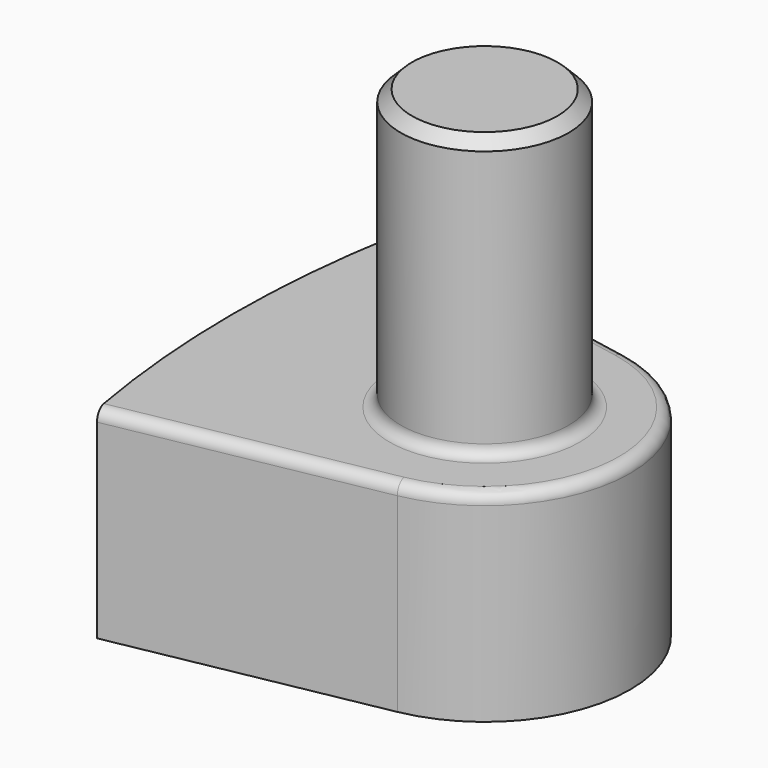
from build123d import *

# Parameters (mm, degrees)
F1_DEPTH = 18
F2_R     = 7.5
F3_DEPTH = 25
F4_R     = 1
F5_SIZE  = 1


with BuildPart() as f1:
    # F0 (on Top) → F1 (new body)
    with BuildSketch(Plane.XY):
        with BuildLine():
            Line((-67.585714, 12.773849), (-90.89085, 17.178571))
            ThreePointArc((-90.89085, 17.178571), (-92.5, 0), (-90.89085, -17.178571))
            Line((-90.89085, -17.178571), (-67.585714, -12.773849))
            ThreePointArc((-67.585714, -12.773849), (-57, 0), (-67.585714, 12.773849))
        make_face()
    extrude(amount=F1_DEPTH)

    # F2 (on face) → F3 (join)
    with BuildSketch(Plane.XY.offset(18)):
        with Locations((-70, 0)):
            Circle(F2_R)
    extrude(amount=F3_DEPTH)

    # F4
    f4_edges = [f1.edges().sort_by_distance(p)[0] for p in [
        (-77.5, 0, 18),
        (-79.238282, 14.97621, 18),
    ]]
    fillet(f4_edges, radius=F4_R)

    # F5
    f5_edges = [f1.edges().sort_by_distance(p)[0] for p in [
        (-77.5, 0, 43),
    ]]
    chamfer(f5_edges, length=F5_SIZE)


solid = f1.part
